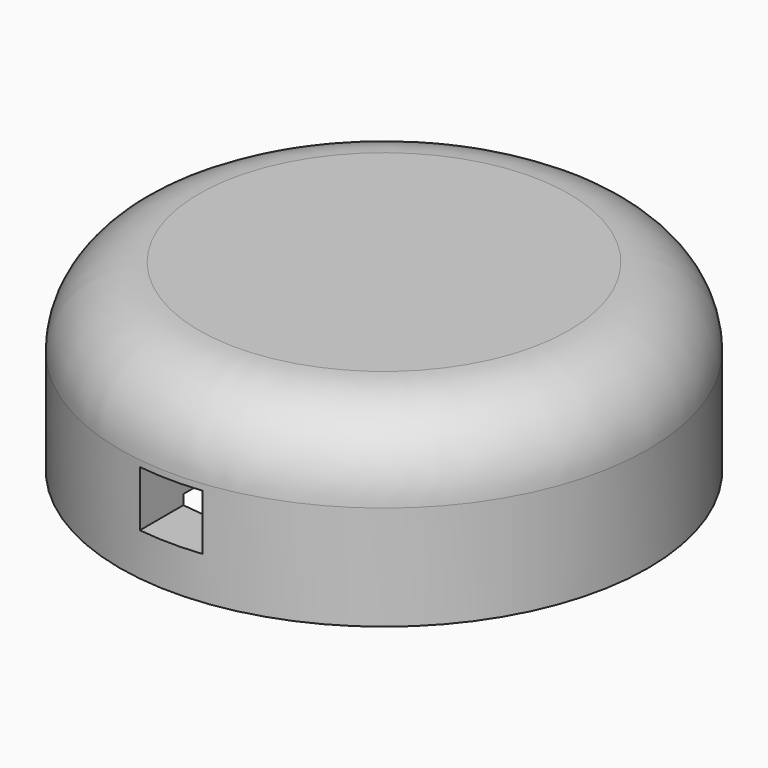
from build123d import *

# Parameters (mm, degrees)
F0_R     = 5.1181
F1_DEPTH = 3.556
F2_R     = 4.0767
F3_DEPTH = 1.016
F4_R     = 1.533026
F5_W     = 1.221381
F5_H     = 1.078277
F6_DEPTH = 5.4864


with BuildPart() as f1:
    # F0 (on Top) → F1 (new body)
    with BuildSketch(Plane.XY):
        Circle(F0_R)
    extrude(amount=F1_DEPTH)

    # F2 (on Top) → F3 (cut)
    with BuildSketch(Plane.XY):
        Circle(F2_R)
    extrude(amount=F3_DEPTH, mode=Mode.SUBTRACT)

    # F4
    f4_edges = [f1.edges().sort_by_distance(p)[0] for p in [
        (-5.1181, 0, 3.556),
    ]]
    fillet(f4_edges, radius=F4_R)

    # F5 (on Front) → F6 (cut)
    with BuildSketch(Plane.XZ):
        with Locations((-0.060498, 1.36471)):
            Rectangle(F5_W, F5_H)
    extrude(amount=F6_DEPTH, mode=Mode.SUBTRACT)


solid = f1.part
